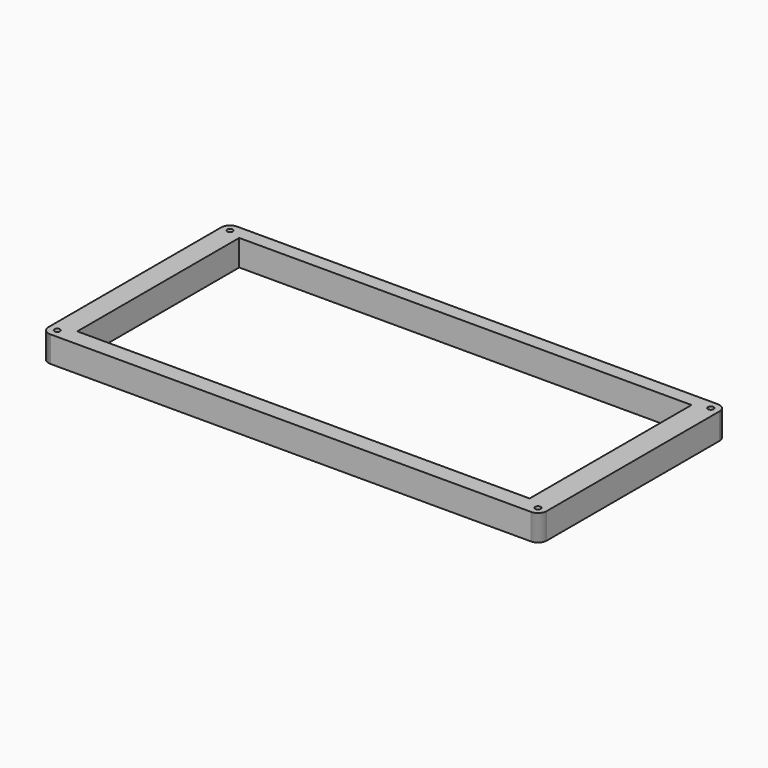
from build123d import *

# Parameters (mm, degrees)
F0_R     = 1.621513
F0_R_2   = 1.620764
F0_W     = 260.302752
F0_H     = 116.467979
F0_R_3   = 1.624073
F0_R_4   = 1.618261
F1_DEPTH = 15


with BuildPart() as f1:
    # F0 (on Top) → F1 (new body)
    with BuildSketch(Plane.XY):
        Polygon((138.743147, 67.134982), (138.351147, 67.149982), (-138.350253, 67.150982), (-138.742993, 67.134982), (-139.132953, 67.088982), (-139.517453, 67.011982), (-139.896403, 66.905982), (-140.264343, 66.768982), (-140.619873, 66.604982), (-140.963003, 66.413982), (-141.289603, 66.195982), (-141.598283, 65.953982), (-141.886293, 65.685982), (-142.153633, 65.398982), (-142.396163, 65.089982), (-142.613896, 64.762982), (-142.805443, 64.419982), (-142.969429, 64.063982), (-143.105855, 63.695982), (-143.211965, 63.317982), (-143.289135, 62.932982), (-143.33461, 62.542982), (-143.349768, 62.149982), (-143.351146, -62.150088), (-143.33461, -62.542838), (-143.289135, -62.932798), (-143.211965, -63.317288), (-143.105855, -63.696238), (-142.969429, -64.064178), (-142.805443, -64.419708), (-142.613896, -64.762838), (-142.396163, -65.089438), (-142.153633, -65.398118), (-141.886293, -65.686128), (-141.598283, -65.953468), (-141.289603, -66.195998), (-140.963003, -66.41373), (-140.619873, -66.605278), (-140.264343, -66.769266), (-139.896403, -66.905691), (-139.517453, -67.0118), (-139.132953, -67.08897), (-138.742993, -67.134446), (-138.350253, -67.150982), (138.351147, -67.150982), (138.743147, -67.134446), (139.133147, -67.08897), (139.517147, -67.0118), (139.896147, -66.905691), (140.264147, -66.769266), (140.620147, -66.605278), (140.963147, -66.41373), (141.289147, -66.195998), (141.598147, -65.953468), (141.886147, -65.686128), (142.153147, -65.398118), (142.396147, -65.089438), (142.614147, -64.762838), (142.805147, -64.419708), (142.969147, -64.064178), (143.106147, -63.696238), (143.212147, -63.317288), (143.289147, -62.932798), (143.334147, -62.542838), (143.351147, -62.151458), (143.350147, 62.149982), (143.334147, 62.542982), (143.289147, 62.932982), (143.212147, 63.317982), (143.106147, 63.695982), (142.969147, 64.063982), (142.805147, 64.419982), (142.614147, 64.762982), (142.396147, 65.089982), (142.153147, 65.398982), (141.886147, 65.685982), (141.598147, 65.953982), (141.289147, 66.195982), (140.963147, 66.413982), (140.620147, 66.604982), (140.264147, 66.768982), (139.896147, 66.905982), (139.517147, 67.011982), (139.133147, 67.088982), align=None)
        with Locations((-138.351685, -62.138656)):
            Circle(F0_R, mode=Mode.SUBTRACT)
        with Locations((138.346991, -62.147275)):
            Circle(F0_R_2, mode=Mode.SUBTRACT)
        with Locations((-0.470817, 0.892164)):
            Rectangle(F0_W, F0_H, mode=Mode.SUBTRACT)
        with Locations((-138.354012, 62.161052)):
            Circle(F0_R_3, mode=Mode.SUBTRACT)
        with Locations((138.34434, 62.144211)):
            Circle(F0_R_4, mode=Mode.SUBTRACT)
    extrude(amount=F1_DEPTH)


solid = f1.part
